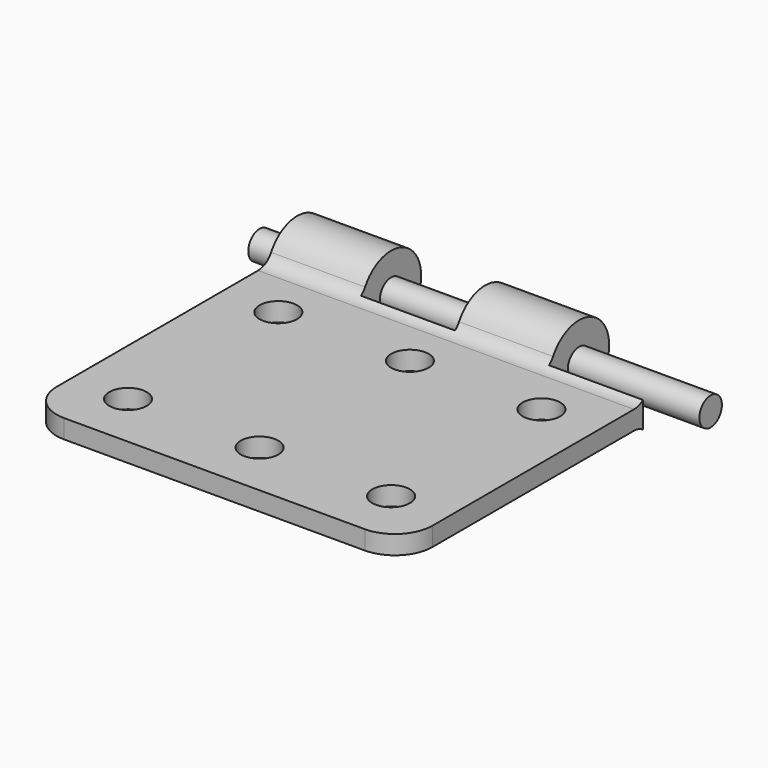
from build123d import *

# Parameters (mm, degrees)
F0_R     = 0.79375
F2_DEPTH = 1.5875
F1_R     = 0.595313
F3_DEPTH = 12.7
F4_DEPTH = 9.525


with BuildPart() as f2:
    # F0 (on Top) → F2 (new body, symmetric)
    with BuildSketch(Plane.XY):
        with BuildLine():
            Line((-3.96875, 3.175), (-7.9375, 3.175))
            Line((-7.9375, 3.175), (-7.9375, -11.1125))
            ThreePointArc((-7.9375, -11.1125), (-7.472532, -12.235032), (-6.35, -12.7))
            Line((-6.35, -12.7), (6.35, -12.7))
            ThreePointArc((6.35, -12.7), (7.472532, -12.235032), (7.9375, -11.1125))
            Line((7.9375, -11.1125), (7.9375, 0))
            Line((7.9375, 0), (3.96875, 0))
            Line((3.96875, 0), (3.96875, 3.175))
            Line((3.96875, 3.175), (0, 3.175))
            Line((0, 3.175), (0, 0))
            Line((0, 0), (-3.96875, 0))
            Line((-3.96875, 0), (-3.96875, 3.175))
        make_face()
        with Locations((-5.55625, -10.31875)):
            Circle(F0_R, mode=Mode.SUBTRACT)
        with Locations((0, -10.31875)):
            Circle(F0_R, mode=Mode.SUBTRACT)
        with Locations((5.55625, -10.31875)):
            Circle(F0_R, mode=Mode.SUBTRACT)
        with Locations((-5.55625, -2.38125)):
            Circle(F0_R, mode=Mode.SUBTRACT)
        with Locations((0, -2.38125)):
            Circle(F0_R, mode=Mode.SUBTRACT)
        with Locations((5.55625, -2.38125)):
            Circle(F0_R, mode=Mode.SUBTRACT)
    extrude(amount=F2_DEPTH, both=True)

    # F1 (on Right) → F3 (intersect, symmetric)
    with BuildSketch(Plane.YZ):
        with BuildLine():
            Line((-12.7, 0.396875), (-12.7, -0.396875))
            Line((-12.7, -0.396875), (-0.474723, -0.396875))
            ThreePointArc((-0.474723, -0.396875), (-0.077848, -0.503217), (0.212685, -0.79375))
            ThreePointArc((0.212685, -0.79375), (3.175, 0), (0.212685, 0.79375))
            ThreePointArc((0.212685, 0.79375), (-0.077848, 0.503217), (-0.474723, 0.396875))
            Line((-0.474723, 0.396875), (-12.7, 0.396875))
        make_face()
        with Locations((1.5875, 0)):
            Circle(F1_R, mode=Mode.SUBTRACT)
    extrude(amount=F3_DEPTH, both=True, mode=Mode.INTERSECT)


with BuildPart() as f4:
    # F1 (on Right) → F4 (new body, symmetric)
    with BuildSketch(Plane.YZ):
        with Locations((1.5875, 0)):
            Circle(F1_R)
    extrude(amount=F4_DEPTH, both=True)


solid = Compound([f2.part, f4.part])
